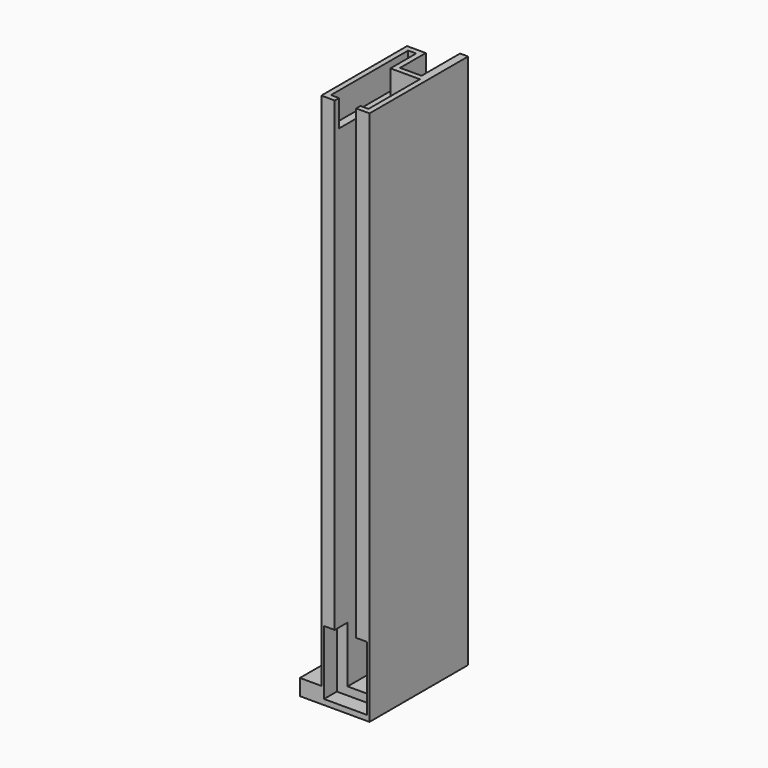
from build123d import *

# Parameters (mm, degrees)
F1_DEPTH  = 23
F2_W      = 7.5
F2_H      = 4
F3_DEPTH  = 9
F5_DEPTH  = 3.5
F7_DEPTH  = 11
F9_DEPTH  = 3
F11_DEPTH = 5


with BuildPart() as f1:
    # F0 (on Front) → F1 (new body)
    with BuildSketch(Plane.XZ):
        Polygon((9, 100), (0, 100), (0, 3), (-4, 3), (-4, 0), (9, 0), align=None)
    extrude(amount=F1_DEPTH)

    # F2 (on face) → F3 (cut)
    with BuildSketch(Plane(origin=(0, 0, 0), x_dir=(-1, 0, 0), z_dir=(0, 1, 0))):
        Polygon((0, 100), (-7.5, 100), (-7.5, 13), (-5.25, 13), (-5.25, 11), (-2.25, 11), (-2.25, 13), (0, 13), align=None)
        with Locations((-3.75, 5)):
            Rectangle(F2_W, F2_H)
    extrude(amount=-F3_DEPTH, mode=Mode.SUBTRACT)

    # F4 (on face) → F5 (join)
    with BuildSketch(Plane(origin=(0, 0, 0), x_dir=(0, -1, 0), z_dir=(-1, 0, 0))):
        Polygon((9, 81), (9, 100), (3, 100), (3, 91), align=None)
    extrude(amount=-F5_DEPTH)

    # F6 (on face) → F7 (cut)
    with BuildSketch(Plane.XZ.offset(23)):
        Polygon((2.5, 100), (2.5, 97.5), (2.5, 2.5), (6.5, 2.5), (6.5, 97.5), (6.5, 100), align=None)
    extrude(amount=-F7_DEPTH, mode=Mode.SUBTRACT)

    # F8 (on face) → F9 (cut)
    with BuildSketch(Plane.XZ.offset(23)):
        Polygon((2.5, 2.5), (2.5, 13), (0.5, 13), (0.5, 1), (8.5, 1), (8.5, 13), (6.5, 13), (6.5, 2.5), align=None)
    extrude(amount=-F9_DEPTH, mode=Mode.SUBTRACT)

    # F10 (on face) → F11 (cut)
    with BuildSketch(Plane.XY.offset(100)):
        Polygon((1, -22), (2.5, -22), (2.5, -12), (6.5, -12), (6.5, -22), (8, -22), (8, -10), (2.5, -10), (2.5, -4), (1, -4), align=None)
    extrude(amount=-F11_DEPTH, mode=Mode.SUBTRACT)


solid = f1.part
